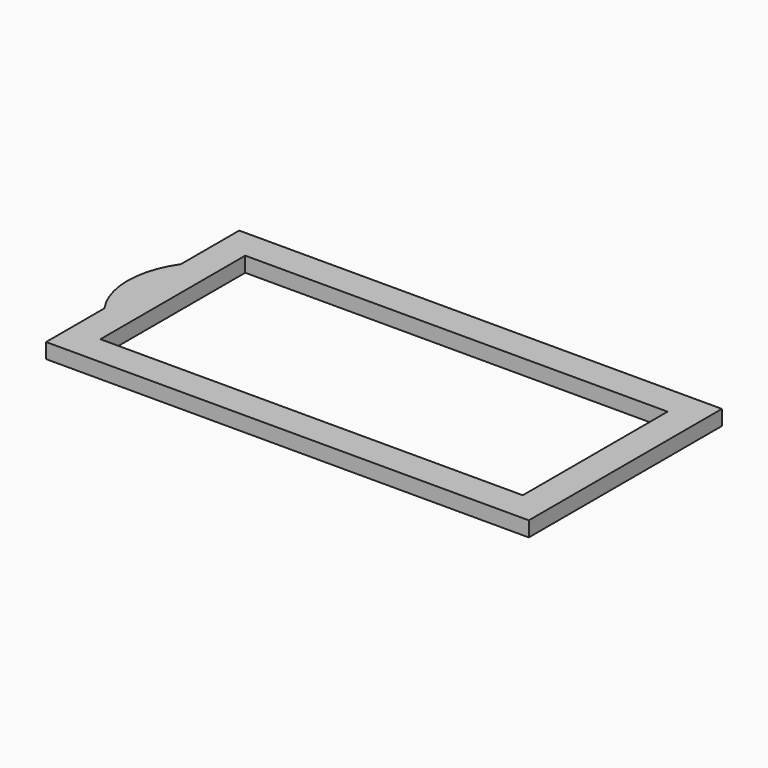
from build123d import *

# Parameters (mm, degrees)
F1_DEPTH = 1.5875


with BuildPart() as f1:
    # F0 (on Top) → F1 (new body)
    with BuildSketch(Plane.XY):
        with BuildLine():
            Line((0, 7.6798842145), (0, 0))
            Line((0, 0), (50.8, 0))
            Line((50.8, 0), (50.8, 25.4))
            Line((50.8, 25.4), (0, 25.4))
            Line((0, 25.4), (0, 17.7201157855))
            ThreePointArc((0, 17.7201157855), (1.4190494999, 19.2926118305), (3.175, 20.4771299333))
            Line((3.175, 20.4771299333), (3.175, 22.225))
            Line((3.175, 22.225), (47.625, 22.225))
            Line((47.625, 22.225), (47.625, 3.175))
            Line((47.625, 3.175), (3.175, 3.175))
            Line((3.175, 3.175), (3.175, 4.9228700667))
            ThreePointArc((3.175, 4.9228700667), (1.4190494999, 6.1073881695), (0, 7.6798842145))
        make_face()
        with BuildLine():
            ThreePointArc((0, 17.7201157855), (-1.5875, 12.7), (0, 7.6798842145))
            Line((0, 7.6798842145), (0, 17.7201157855))
        make_face()
        with BuildLine():
            Line((0, 17.7201157855), (0, 7.6798842145))
            ThreePointArc((0, 7.6798842145), (1.4190494999, 6.1073881695), (3.175, 4.9228700667))
            Line((3.175, 4.9228700667), (3.175, 20.4771299333))
            ThreePointArc((3.175, 20.4771299333), (1.4190494999, 19.2926118305), (0, 17.7201157855))
        make_face()
    extrude(amount=F1_DEPTH)


solid = f1.part
